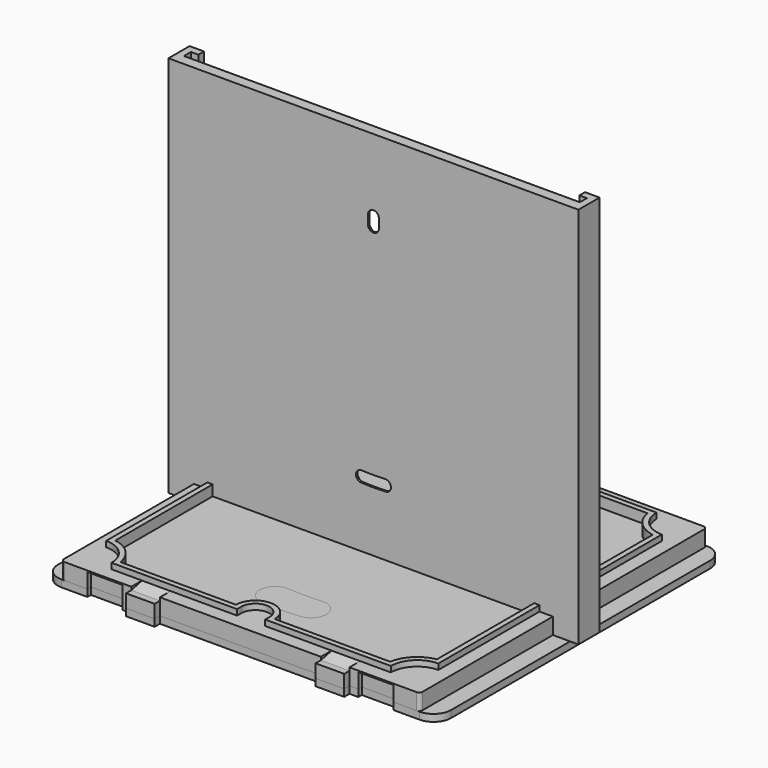
from build123d import *

# Parameters (mm, degrees)
PAD_DEPTH          = 3.7
FILLET_R           = 0.8
SKETCH002_W        = 6.5
SKETCH002_H        = 4.55
POCKET_DEPTH       = 0.7
CHAMFER_1_SIZE2    = 3.05
CHAMFER_1_SIZE     = 0.69
CHAMFER_2_SIZE2    = 3.05
CHAMFER_2_SIZE     = 0.69
SKETCH003_W        = 8
SKETCH003_H        = 1
POCKET001_DEPTH    = 2.901
CHAMFER001_1_SIZE2 = 0.99
CHAMFER001_1_SIZE  = 0.5
CHAMFER001_2_SIZE2 = 0.99
CHAMFER001_2_SIZE  = 0.5
CHAMFER001_3_SIZE2 = 0.99
CHAMFER001_3_SIZE  = 0.5
PAD001_DEPTH       = 1.3
POCKET002_DEPTH    = 1.1
PAD002_DEPTH       = 1.6
FILLET001_R        = 4
PAD003_DEPTH       = 87
SKETCH008_W        = 93.2
SKETCH008_H        = 6
PAD004_DEPTH       = 1.6
POCKET003_DEPTH    = 2.401
CHAMFER002_SIZE    = 2
POCKET004_DEPTH    = 5.001
CHAMFER003_SIZE    = 2


with BuildPart() as base:
    # Sketch001 → Pad (new body)
    with BuildSketch(Plane.XY):
        Polygon((-40.8, 40.8), (40.8, 40.8), (40.8, -40.8), (24.8, -40.8), (24.8, -42.3), (18.3, -42.3), (18.3, -40.8), (-18.3, -40.8), (-18.3, -42.3), (-24.8, -42.3), (-24.8, -40.8), (-40.8, -40.8), align=None)
    extrude(amount=PAD_DEPTH)

    # Fillet
    fillet_edges = [base.edges().sort_by_distance(p)[0] for p in [
        (40.8, -40.8, 1.85),
        (40.8, 40.8, 1.85),
        (-40.8, 40.8, 1.85),
        (-40.8, -40.8, 1.85),
    ]]
    fillet(fillet_edges, radius=FILLET_R)

    # Sketch002 → Pocket (cut)
    with BuildSketch(Plane.XY.offset(3.7)):
        with Locations((-21.55, -40.025)):
            Rectangle(SKETCH002_W, SKETCH002_H)
        with Locations((21.55, -40.025)):
            Rectangle(SKETCH002_W, SKETCH002_H)
    extrude(amount=-POCKET_DEPTH, mode=Mode.SUBTRACT)

    # Chamfer 1
    chamfer_1_edges = [base.edges().sort_by_distance(p)[0] for p in [
        (-21.55, -37.75, 3),
    ]]
    chamfer_1_side = base.faces().sort_by_distance((-21.55, -37.75, 3.35))[0]
    chamfer(chamfer_1_edges, length=CHAMFER_1_SIZE, length2=CHAMFER_1_SIZE2, reference=chamfer_1_side)

    # Chamfer 2
    chamfer_2_edges = [base.edges().sort_by_distance(p)[0] for p in [
        (21.55, -37.75, 3),
    ]]
    chamfer_2_side = base.faces().sort_by_distance((21.55, -37.75, 3.35))[0]
    chamfer(chamfer_2_edges, length=CHAMFER_2_SIZE, length2=CHAMFER_2_SIZE2, reference=chamfer_2_side)

    # Sketch003 → Pocket001 (cut, through all)
    with BuildSketch(Plane.XY.offset(2.9)):
        with Locations((-30.8, 40.3)):
            Rectangle(SKETCH003_W, SKETCH003_H)
        with Locations((30.8, 40.3)):
            Rectangle(SKETCH003_W, SKETCH003_H)
        with Locations((30.8, -40.3)):
            Rectangle(SKETCH003_W, SKETCH003_H)
        with Locations((-30.8, -40.3)):
            Rectangle(SKETCH003_W, SKETCH003_H)
    extrude(amount=-POCKET001_DEPTH, mode=Mode.SUBTRACT)

    # Chamfer001 1
    chamfer001_1_edges = [base.edges().sort_by_distance(p)[0] for p in [
        (30.8, -40.8, 2.9),
    ]]
    chamfer001_1_side = base.faces().sort_by_distance((37.4, -40.8, 0.156438))[0]
    chamfer(chamfer001_1_edges, length=CHAMFER001_1_SIZE, length2=CHAMFER001_1_SIZE2, reference=chamfer001_1_side)

    # Chamfer001 2
    chamfer001_2_edges = [base.edges().sort_by_distance(p)[0] for p in [
        (-30.8, -40.8, 2.9),
    ]]
    chamfer001_2_side = base.faces().sort_by_distance((-25.8, -40.8, 0.156438))[0]
    chamfer(chamfer001_2_edges, length=CHAMFER001_2_SIZE, length2=CHAMFER001_2_SIZE2, reference=chamfer001_2_side)

    # Chamfer001 3
    chamfer001_3_edges = [base.edges().sort_by_distance(p)[0] for p in [
        (-30.8, 40.8, 2.9),
        (30.8, 40.8, 2.9),
    ]]
    chamfer001_3_side = base.faces().sort_by_distance((0, 40.8, 1.924359))[0]
    chamfer(chamfer001_3_edges, length=CHAMFER001_3_SIZE, length2=CHAMFER001_3_SIZE2, reference=chamfer001_3_side)

    # Sketch004 → Pad001 (join)
    with BuildSketch(Plane.XY.offset(3.7)):
        with BuildLine():
            ThreePointArc((-37.75, 31.75), (-33.507359, 33.507359), (-31.75, 37.75))
            Line((-3.2, 37.75), (-31.75, 37.75))
            Line((-3.2, 36.55), (-3.2, 37.75))
            ThreePointArc((-3.2, 36.55), (0, 33.349985), (3.2, 36.55))
            Line((3.2, 37.75), (3.2, 36.55))
            Line((31.75, 37.75), (3.2, 37.75))
            ThreePointArc((31.75, 37.75), (33.507359, 33.507359), (37.75, 31.75))
            Line((37.75, 31.75), (37.75, -31.75))
            ThreePointArc((37.75, -31.75), (33.507359, -33.507359), (31.75, -37.75))
            Line((3.2, -37.75), (31.75, -37.75))
            Line((3.2, -36.55), (3.2, -37.75))
            ThreePointArc((3.2, -36.55), (0, -33.350018), (-3.2, -36.55))
            Line((-3.2, -37.75), (-3.2, -36.55))
            Line((-31.75, -37.75), (-3.2, -37.75))
            ThreePointArc((-31.75, -37.75), (-33.507359, -33.507359), (-37.75, -31.75))
            Line((-37.75, 31.75), (-37.75, -31.75))
        make_face()
        with BuildLine():
            ThreePointArc((-36.55, 30.650704), (-32.658831, 32.658831), (-30.650704, 36.55))
            Line((-4.4, 36.55), (-30.650704, 36.55))
            ThreePointArc((-4.4, 36.55), (0, 32.149974), (4.4, 36.55))
            Line((30.650704, 36.55), (4.4, 36.55))
            ThreePointArc((30.650704, 36.55), (32.658831, 32.658831), (36.55, 30.650704))
            Line((36.55, -30.650704), (36.55, 30.650704))
            ThreePointArc((36.55, -30.650704), (32.658831, -32.658831), (30.650704, -36.55))
            Line((4.4, -36.55), (30.650704, -36.55))
            ThreePointArc((4.4, -36.55), (0, -32.150017), (-4.4, -36.55))
            Line((-30.650704, -36.55), (-4.4, -36.55))
            ThreePointArc((-30.650704, -36.55), (-32.658831, -32.658831), (-36.55, -30.650704))
            Line((-36.55, 30.650704), (-36.55, -30.650704))
        make_face(mode=Mode.SUBTRACT)
    extrude(amount=PAD001_DEPTH)

    # Sketch005 → Pocket002 (cut)
    with BuildSketch(Plane.XY.offset(3.7)):
        with BuildLine():
            ThreePointArc((-36.55, 30.650704), (-32.658831, 32.658831), (-30.650704, 36.55))
            Line((-4.4, 36.55), (-30.650704, 36.55))
            ThreePointArc((-4.4, 36.55), (0, 32.149974), (4.4, 36.55))
            Line((30.650704, 36.55), (4.4, 36.55))
            ThreePointArc((30.650704, 36.55), (32.658831, 32.658831), (36.55, 30.650704))
            Line((36.55, -30.650704), (36.55, 30.650704))
            ThreePointArc((36.55, -30.650704), (32.658831, -32.658831), (30.650704, -36.55))
            Line((4.4, -36.55), (30.650704, -36.55))
            ThreePointArc((4.4, -36.55), (0, -32.150029), (-4.4, -36.55))
            Line((-30.650704, -36.55), (-4.4, -36.55))
            ThreePointArc((-30.650704, -36.55), (-32.658831, -32.658831), (-36.55, -30.650704))
            Line((-36.55, 30.650704), (-36.55, -30.650704))
        make_face()
    extrude(amount=-POCKET002_DEPTH, mode=Mode.SUBTRACT)


with BuildPart() as backwithflaps:
    # Body001 base: copy of Base
    add(base.part)

    # Sketch006 → Pad002 (new body)
    with BuildSketch(Plane.XY):
        Polygon((-44.7, 40.8), (-44.7, -40.8), (-40.8, -40.8), (-34.8, -40.8), (-34.8, -39.8), (-26.8, -39.8), (-26.8, -40.8), (-24.8, -40.8), (-24.8, -42.3), (-18.3, -42.3), (-18.3, -40.8), (18.3, -40.8), (18.3, -42.3), (24.8, -42.3), (24.8, -40.8), (26.8, -40.8), (26.8, -39.8), (34.8, -39.8), (34.8, -40.8), (40.8, -40.8), (44.7, -40.8), (44.7, 40.8), (40.8, 40.8), (34.8, 40.8), (34.8, 39.8), (26.8, 39.8), (26.8, 40.8), (-26.8, 40.8), (-26.8, 39.8), (-34.8, 39.8), (-34.8, 40.8), (-40.8, 40.8), align=None)
    extrude(amount=-PAD002_DEPTH)

    # Fillet001
    fillet001_edges = [backwithflaps.edges().sort_by_distance(p)[0] for p in [
        (-44.7, -40.8, -0.8),
        (44.7, -40.8, -0.8),
        (-44.7, 40.8, -0.8),
        (44.7, 40.8, -0.8),
    ]]
    fillet(fillet001_edges, radius=FILLET001_R)


with BuildPart() as holder:
    # Sketch007 → Pad003 (new body)
    with BuildSketch(Plane.XY):
        Polygon((-43.3, 3), (-46.6, 3), (-46.6, -3), (46.6, -3), (46.6, 3), (43.3, 3), (43.3, 1.4), (45, 1.4), (45, -0.6), (-45, -0.6), (-45, 1.4), (-43.3, 1.4), align=None)
    extrude(amount=PAD003_DEPTH)

    # Sketch008 → Pad004 (join)
    with BuildSketch(Plane.XY):
        Rectangle(SKETCH008_W, SKETCH008_H)
    extrude(amount=PAD004_DEPTH)

    # Sketch009 (on DatumPlane) → Pocket003 (cut, through all)
    with BuildSketch(Plane(origin=(0, -0.6, 0), x_dir=(-1, 0, 0), z_dir=(0, 1, 0))):
        with BuildLine():
            ThreePointArc((1.25, 70.5), (0, 71.75), (-1.25, 70.5))
            Line((-1.25, 70.5), (-1.25, 68.5))
            ThreePointArc((-1.25, 68.5), (0, 67.25), (1.25, 68.5))
            Line((1.25, 70.5), (1.25, 68.5))
        make_face()
        with BuildLine():
            ThreePointArc((-2.65605, 18.819551), (-3.969757, 17.636684), (-2.78689, 16.322977))
            ThreePointArc((-2.78689, 16.322977), (0, 16.25), (2.78689, 16.322977))
            ThreePointArc((2.78689, 16.322977), (3.969757, 17.636684), (2.65605, 18.819551))
            ThreePointArc((-2.65605, 18.819551), (0, 18.75), (2.65605, 18.819551))
        make_face()
    extrude(amount=-POCKET003_DEPTH, mode=Mode.SUBTRACT)

    # Chamfer002
    chamfer002_edges = [holder.edges().sort_by_distance(p)[0] for p in [
        (3.969757, -0.6, 17.636684),
        (0, -0.6, 71.75),
    ]]
    chamfer(chamfer002_edges, length=CHAMFER002_SIZE)


with BuildPart() as body003:
    # Body003 base: copy of Base
    add(base.part)

    # Sketch011 → Pocket004 (cut, through all)
    with BuildSketch(Plane.XY):
        with BuildLine():
            ThreePointArc((1.5, 27.5), (0, 29), (-1.5, 27.5))
            Line((-1.5, 27.5), (-1.5, 24.5))
            ThreePointArc((-1.5, 24.5), (0, 23), (1.5, 24.5))
            Line((1.5, 27.5), (1.5, 24.5))
        make_face()
        with BuildLine():
            ThreePointArc((-3.962184, -24.344325), (-5.575249, -25.722013), (-4.197562, -27.335077))
            ThreePointArc((-4.197562, -27.335077), (7e-06, -27.5), (4.197575, -27.335076))
            ThreePointArc((4.197575, -27.335076), (5.575248, -25.721999), (3.962171, -24.344326))
            ThreePointArc((-3.962184, -24.344325), (-7e-06, -24.5), (3.962171, -24.344326))
        make_face()
    extrude(amount=POCKET004_DEPTH, mode=Mode.SUBTRACT)

    # Chamfer003
    chamfer003_edges = [body003.edges().sort_by_distance(p)[0] for p in [
        (-5.575249, -25.722013, 2.6),
        (0, 23, 2.6),
    ]]
    chamfer(chamfer003_edges, length=CHAMFER003_SIZE)


solid = Compound([backwithflaps.part, holder.part, body003.part])
